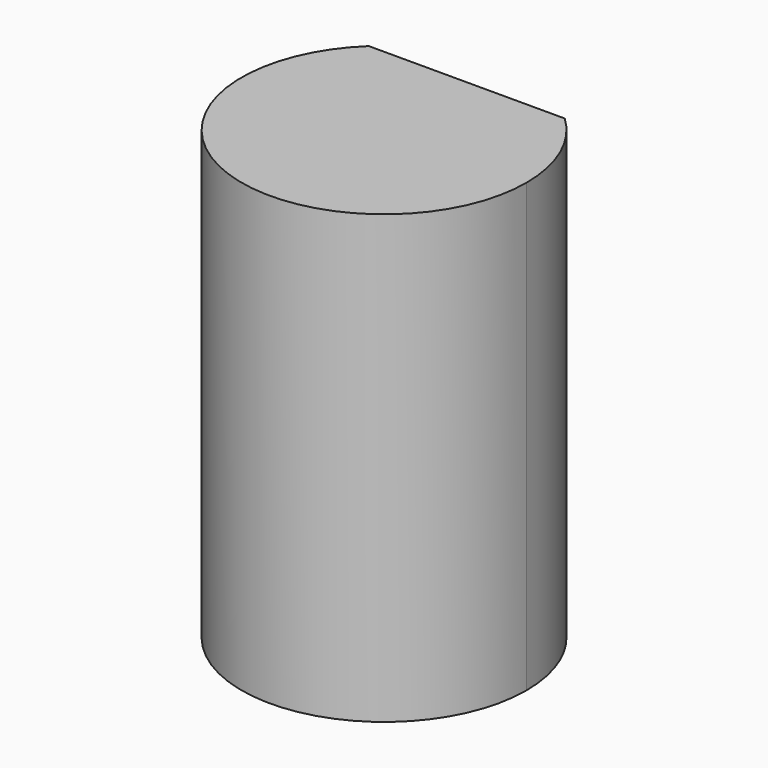
from build123d import *

# Parameters (mm, degrees)
F1_DEPTH = 700


with BuildPart() as f1:
    # F0 (on Top) → F1 (new body)
    with BuildSketch(Plane.XY):
        with BuildLine():
            ThreePointArc((-153.5, 162), (-88.173616, -205.016252), (223.173139, 0))
            ThreePointArc((223.173139, 0), (205.016252, 88.173616), (153.5, 162))
            Line((153.5, 162), (-153.5, 162))
        make_face()
    extrude(amount=F1_DEPTH)


solid = f1.part
